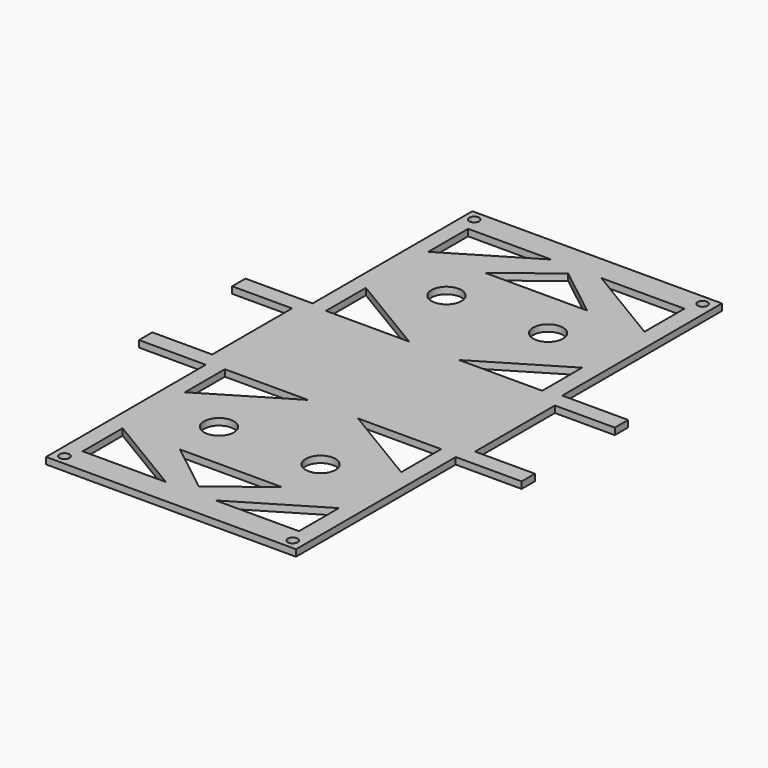
from build123d import *

# Parameters (mm, degrees)
F0_R     = 1.5
F0_R_2   = 4.5
F1_DEPTH = 2


with BuildPart() as f1:
    # F0 (on Top) → F1 (new body)
    with BuildSketch(Plane.XY):
        Polygon((-37.302821, 20), (-57.5, 20), (-57.5, 15), (-39.5, 15), (-39.5, -15), (-57.5, -15), (-57.5, -20), (-37.419831, -20.024771), (-37.419831, -80), (37.697179, -80), (37.697179, -20), (57.5, -20), (57.5, -15), (39.5, -15), (39.5, 15), (57.5, 15), (57.5, 20), (37.697179, 20), (37.697179, 80), (-37.302821, 80), align=None)
        with Locations((-34.302821, -77)):
            Circle(F0_R, mode=Mode.SUBTRACT)
        Polygon((-32.5, -72.402135), (-32.5, -57.402135), (-7.5, -72.402135), align=None, mode=Mode.SUBTRACT)
        with Locations((-15.268438, -42.727452)):
            Circle(F0_R_2, mode=Mode.SUBTRACT)
        Polygon((-32.5, -18.990554), (-7.5, -18.990554), (-32.5, -33.990554), align=None, mode=Mode.SUBTRACT)
        Polygon((0, -69.360726), (-15.268438, -57.402135), (15.268438, -57.402135), align=None, mode=Mode.SUBTRACT)
        Polygon((32.5, -57.402135), (32.5, -72.402135), (7.5, -72.402135), align=None, mode=Mode.SUBTRACT)
        with Locations((15.268438, -42.727452)):
            Circle(F0_R_2, mode=Mode.SUBTRACT)
        with Locations((34.302821, -77)):
            Circle(F0_R, mode=Mode.SUBTRACT)
        Polygon((32.5, -33.990554), (7.5, -18.990554), (32.5, -18.990554), align=None, mode=Mode.SUBTRACT)
        Polygon((-32.5, 18.990554), (-32.5, 33.990554), (-7.5, 18.990554), align=None, mode=Mode.SUBTRACT)
        with Locations((-34.302821, 77)):
            Circle(F0_R, mode=Mode.SUBTRACT)
        with Locations((-15.268438, 42.727452)):
            Circle(F0_R_2, mode=Mode.SUBTRACT)
        Polygon((-7.5, 72.402135), (-32.5, 57.402135), (-32.5, 72.402135), align=None, mode=Mode.SUBTRACT)
        Polygon((32.5, 18.990554), (7.5, 18.990554), (32.5, 33.990554), align=None, mode=Mode.SUBTRACT)
        with Locations((15.268438, 42.727452)):
            Circle(F0_R_2, mode=Mode.SUBTRACT)
        Polygon((15.268438, 57.402135), (-15.268438, 57.402135), (0, 69.360726), align=None, mode=Mode.SUBTRACT)
        Polygon((32.5, 72.402135), (32.5, 57.402135), (7.5, 72.402135), align=None, mode=Mode.SUBTRACT)
        with Locations((34.302821, 77)):
            Circle(F0_R, mode=Mode.SUBTRACT)
    extrude(amount=F1_DEPTH)


solid = f1.part
